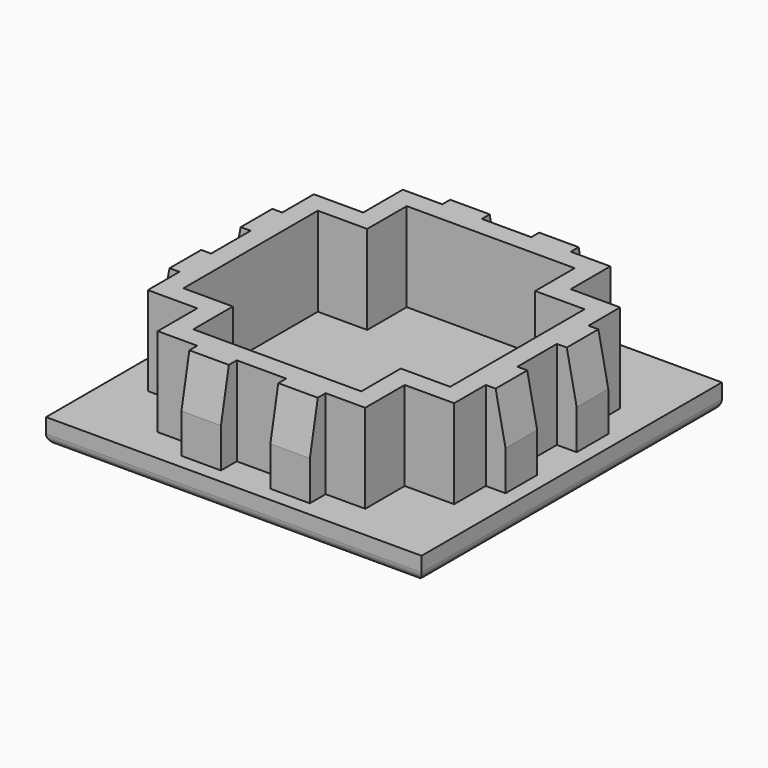
from build123d import *

# Parameters (mm, degrees)
F0_W     = 38
F0_H     = 38
F1_DEPTH = 2.5
F3_DEPTH = 9
F4_SIZE2 = 5
F4_SIZE  = 1
F6_COUNT = 4
F7_R     = 1


with BuildPart() as f1:
    # F0 (on Top) → F1 (new body)
    with BuildSketch(Plane.XY):
        Rectangle(F0_W, F0_H)
    extrude(amount=F1_DEPTH)



with BuildPart() as f3:
    # F2 (on face) → F3 (new body)
    with BuildSketch(Plane.XY.offset(2.5)):
        Polygon((-15.5, 0), (-13.5, 0), (-13.5, 8.5), (-8.5, 8.5), (-8.5, 13.5), (0, 13.5), (0, 15.5), (-2.5, 15.5), (-2.5, 17.5), (-6.5, 17.5), (-6.5, 15.5), (-10.5, 15.5), (-10.5, 10.5), (-15.5, 10.5), (-15.5, 6.5), (-17.5, 6.5), (-17.5, 2.5), (-15.5, 2.5), align=None)
    extrude(amount=F3_DEPTH)

    # F4
    f4_edges = [f3.edges().sort_by_distance(p)[0] for p in [
        (-17.5, 4.5, 11.5),
        (-4.5, 17.5, 11.5),
    ]]
    f4_side = f3.faces().sort_by_distance((-10.131757, 10.131757, 11.5))[0]
    chamfer(f4_edges, length=F4_SIZE, length2=F4_SIZE2, reference=f4_side)


with BuildPart() as f1_1:
    add(f1.part)

    add(f3.part)  # F6 merges F3
    # F6: F3 ×4 about axis
    f6_axis = Axis((0, 0, 21.3143786676), (0, 0, 1))
    for i in range(1, F6_COUNT):
        add(f3.part.rotate(f6_axis, i * 360 / F6_COUNT))

    # F7
    f7_edges = [f1_1.edges().sort_by_distance(p)[0] for p in [
        (0, 19, 0),
        (-19, 0, 0),
        (0, -19, 0),
        (19, 0, 0),
    ]]
    fillet(f7_edges, radius=F7_R)


solid = f1_1.part
